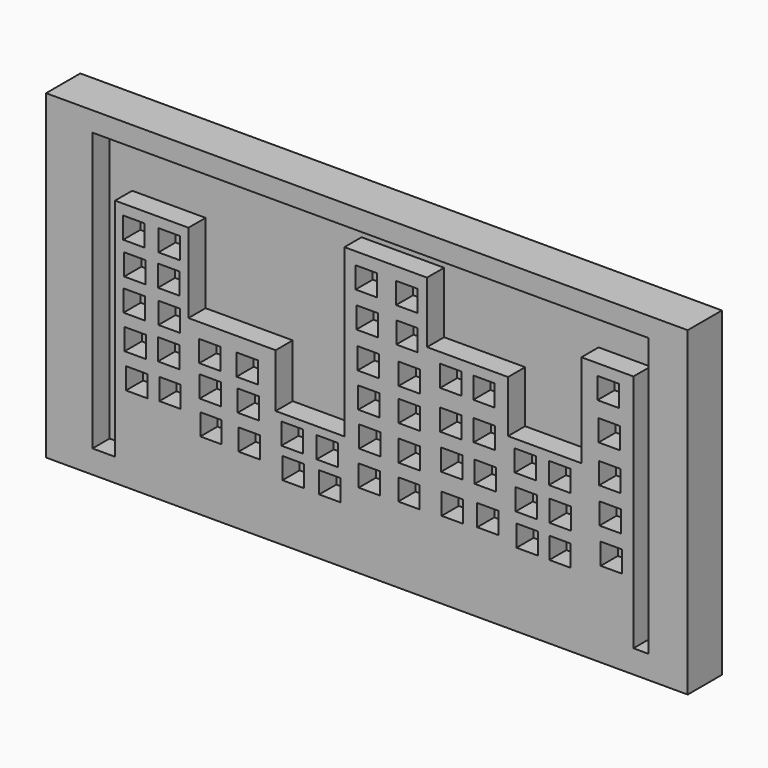
from build123d import *

# Parameters (mm, degrees)
F0_W     = 76.2
F0_H     = 38.1
F1_DEPTH = 5.08
F2_W     = 66.04
F2_H     = 33.02
F3_DEPTH = 2.54
F4_W     = 8.1718396395
F4_H     = 10.9837531557
F4_W_2   = 8.7166242301
F4_H_2   = 17.3396273961
F5_DEPTH = 2.54
F6_W     = 2.54
F6_H     = 2.54
F7_DEPTH = 2.54


with BuildPart() as f1:
    # F0 (on Front) → F1 (new body)
    with BuildSketch(Plane.XZ):
        with Locations((38.1, -19.05)):
            Rectangle(F0_W, F0_H)
    extrude(amount=F1_DEPTH)

    # F2 (on face) → F3 (cut)
    with BuildSketch(Plane.XZ.offset(5.08)):
        with Locations((38.5327936427, -18.8418064579)):
            Rectangle(F2_W, F2_H)
    extrude(amount=-F3_DEPTH, mode=Mode.SUBTRACT)

    # F4 (on face) → F5 (join)
    with BuildSketch(Plane.XZ.offset(2.54)):
        Polygon((8.1922821701, -8.5691688582), (8.1922821701, -35.3518064579), (16.9089101255, -35.3518064579), (16.9089101255, -18.0121790618), (16.9089101255, -8.5691688582), align=None)
        Polygon((16.9089101255, -18.0121790618), (16.9089101255, -35.3518064579), (27.2598993033, -35.3518064579), (27.2598993033, -24.3680533022), (27.2598993033, -18.0121790618), align=None)
        with Locations((31.3458191231, -29.85992988)):
            Rectangle(F4_W, F4_H)
        Polygon((35.4317389429, -24.3680533022), (35.4317389429, -35.3518064579), (45.2379435301, -35.3518064579), (45.2379435301, -11.8379034102), (45.2379435301, -4.5740492642), (35.4317389429, -4.5740492642), align=None)
        Polygon((45.2379435301, -11.8379034102), (45.2379435301, -35.3518064579), (54.8625476658, -35.3518064579), (54.8625476658, -18.0121790618), (54.8625476658, -11.8379034102), align=None)
        with Locations((59.2208597809, -26.6819927598)):
            Rectangle(F4_W_2, F4_H_2)
        Polygon((63.579171896, -18.0121790618), (63.579171896, -35.3518064579), (69.7534531355, -35.3518064579), (69.7534531355, -6.9348020479), (63.579171896, -6.9348020479), align=None)
    extrude(amount=F5_DEPTH)

    # F6 (on face) → F7 (cut)
    with BuildSketch(Plane.XZ.offset(5.08)):
        with Locations((10.4259663415, -11.0804381627)):
            Rectangle(F6_W, F6_H)
        with Locations((14.6171673048, -11.0339633036)):
            Rectangle(F6_W, F6_H)
        with Locations((10.5515337703, -14.8870170894)):
            Rectangle(F6_W, F6_H)
        with Locations((14.552853893, -14.7572261128)):
            Rectangle(F6_W, F6_H)
        with Locations((10.4651685026, -18.6873691934)):
            Rectangle(F6_W, F6_H)
        with Locations((14.6171673048, -18.6255368251)):
            Rectangle(F6_W, F6_H)
        with Locations((10.6020652536, -22.6780473101)):
            Rectangle(F6_W, F6_H)
        with Locations((14.5591600952, -22.4536339599)):
            Rectangle(F6_W, F6_H)
        with Locations((19.4589084792, -21.0468525845)):
            Rectangle(F6_W, F6_H)
        with Locations((23.888368268, -21.0191531885)):
            Rectangle(F6_W, F6_H)
        with Locations((19.5087436587, -24.7289072722)):
            Rectangle(F6_W, F6_H)
        with Locations((24.0238420665, -24.7386023402)):
            Rectangle(F6_W, F6_H)
        with Locations((10.7609611005, -26.7240013927)):
            Rectangle(F6_W, F6_H)
        with Locations((14.7207137197, -26.5520196408)):
            Rectangle(F6_W, F6_H)
        with Locations((24.1349171847, -28.776653111)):
            Rectangle(F6_W, F6_H)
        with Locations((29.3462686241, -30.0710331649)):
            Rectangle(F6_W, F6_H)
        with Locations((33.7018221617, -30.1400069147)):
            Rectangle(F6_W, F6_H)
        with Locations((38.0254536867, -7.3063219897)):
            Rectangle(F6_W, F6_H)
        with Locations((33.3980955184, -26.5666358173)):
            Rectangle(F6_W, F6_H)
        with Locations((29.213488102, -26.5012085438)):
            Rectangle(F6_W, F6_H)
        with Locations((42.8296215832, -7.3736635968)):
            Rectangle(F6_W, F6_H)
        with Locations((19.5870622993, -28.6676175892)):
            Rectangle(F6_W, F6_H)
        with Locations((38.2648035884, -15.6868165359)):
            Rectangle(F6_W, F6_H)
        with Locations((38.1200052798, -11.4561077207)):
            Rectangle(F6_W, F6_H)
        with Locations((38.3436270058, -19.7659339756)):
            Rectangle(F6_W, F6_H)
        with Locations((43.1451238692, -19.6074582636)):
            Rectangle(F6_W, F6_H)
        with Locations((38.4608469903, -23.8060709089)):
            Rectangle(F6_W, F6_H)
        with Locations((42.86262393, -11.4840576425)):
            Rectangle(F6_W, F6_H)
        with Locations((43.1447327137, -15.7191138715)):
            Rectangle(F6_W, F6_H)
        with Locations((43.1273765862, -23.753259331)):
            Rectangle(F6_W, F6_H)
        with Locations((38.4013876319, -27.9027707875)):
            Rectangle(F6_W, F6_H)
        with Locations((52.0078316331, -14.2856370658)):
            Rectangle(F6_W, F6_H)
        with Locations((43.0961176753, -27.8223697096)):
            Rectangle(F6_W, F6_H)
        with Locations((48.0682402849, -14.3302213401)):
            Rectangle(F6_W, F6_H)
        with Locations((52.1762929857, -23.0237301439)):
            Rectangle(F6_W, F6_H)
        with Locations((48.1889545918, -23.0523869395)):
            Rectangle(F6_W, F6_H)
        with Locations((52.0583018661, -18.7172554433)):
            Rectangle(F6_W, F6_H)
        with Locations((48.0468422174, -18.9076010138)):
            Rectangle(F6_W, F6_H)
        with Locations((52.4731874466, -27.4629164487)):
            Rectangle(F6_W, F6_H)
        with Locations((48.2457429171, -27.6458207518)):
            Rectangle(F6_W, F6_H)
        with Locations((57.0451878011, -24.3234541267)):
            Rectangle(F6_W, F6_H)
        with Locations((60.9827488661, -20.2890131623)):
            Rectangle(F6_W, F6_H)
        with Locations((56.9282732904, -20.2984437346)):
            Rectangle(F6_W, F6_H)
        with Locations((57.1402683854, -28.086444363)):
            Rectangle(F6_W, F6_H)
        with Locations((61.0473826528, -24.211447686)):
            Rectangle(F6_W, F6_H)
        with Locations((61.0342659056, -28.0982945114)):
            Rectangle(F6_W, F6_H)
        with Locations((66.7542368174, -9.5279766247)):
            Rectangle(F6_W, F6_H)
        with Locations((66.9522807002, -18.3670446277)):
            Rectangle(F6_W, F6_H)
        with Locations((66.8896362185, -13.905971311)):
            Rectangle(F6_W, F6_H)
        with Locations((67.1361014247, -26.7290733755)):
            Rectangle(F6_W, F6_H)
        with Locations((66.9953301549, -22.5685164332)):
            Rectangle(F6_W, F6_H)
    extrude(amount=-F7_DEPTH, mode=Mode.SUBTRACT)


solid = f1.part
